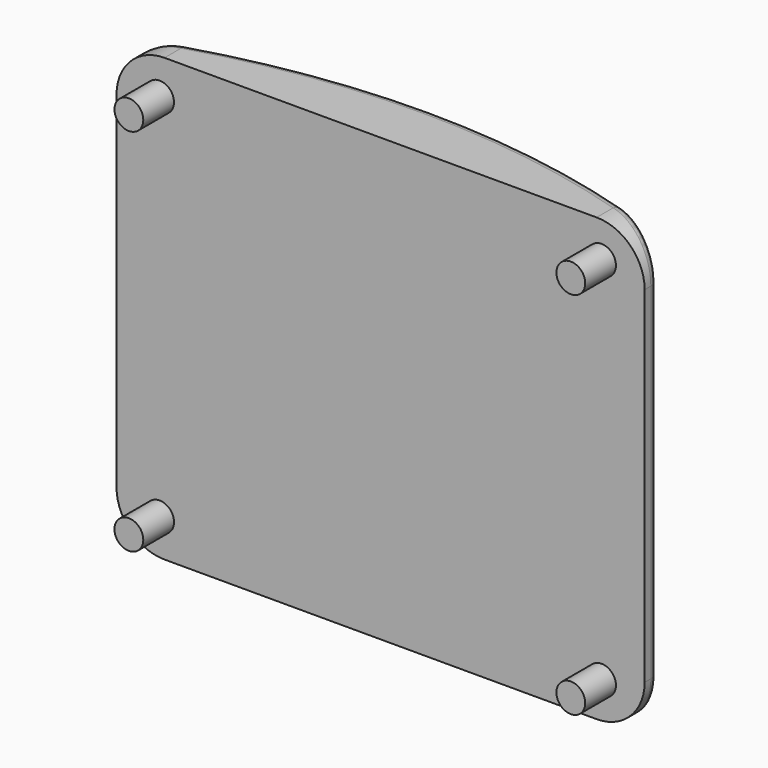
from build123d import *

# Parameters (mm, degrees)
F1_DEPTH = 23
F2_R     = 1.5
F4_DEPTH = 5.5
F5_DEPTH = 10
F6_R     = 5
F7_R     = 1
F8_R     = 0.5


with BuildPart() as f1:
    # F0 (on Top) → F1 (new body, symmetric)
    with BuildSketch(Plane.XY):
        with BuildLine():
            Line((27.5, -1.5), (27.5, 0))
            ThreePointArc((27.5, 0), (0, 5), (-27.5, 0))
            Line((-27.5, 0), (-27.5, -1.5))
            Line((-27.5, -1.5), (27.5, -1.5))
        make_face()
    extrude(amount=F1_DEPTH, both=True)

    # F2 (on Front) → F4 (join)
    with BuildSketch(Plane.XZ):
        with Locations((-23.0123061046, 19.2466560147)):
            Circle(F2_R)
        with Locations((23.0123061046, 19.2466560147)):
            Circle(F2_R)
        with Locations((23.0123061046, -19.2466560147)):
            Circle(F2_R)
        with Locations((-23.0123061046, -19.2466560147)):
            Circle(F2_R)
    extrude(amount=F4_DEPTH)

    # F3 (on Front) → F5 (cut)
    with BuildSketch(Plane.XZ):
        with BuildLine():
            ThreePointArc((0, 1.1039514701), (5.2962880407, -1.5374476198), (10.6882472668, 0.9027228385))
            ThreePointArc((10.6882472668, 0.9027228385), (11.897657458, 2.9834661097), (12.3178755286, 5.3531881071))
            ThreePointArc((12.3178755286, 5.3531881071), (7.6735002476, 11.8682872916), (0, 9.6024247441))
            ThreePointArc((0, 9.6024247441), (1.0890805001, 7.6006696703), (1.4658381598, 5.3531881071))
            ThreePointArc((1.4658381598, 5.3531881071), (1.0890805001, 3.1057065439), (0, 1.1039514701))
        make_face()
        with BuildLine():
            ThreePointArc((0, -10.0526133976), (5.7525538253, -4.9734180228), (10.6882472668, 0.9027228385))
            ThreePointArc((10.6882472668, 0.9027228385), (5.2962880407, -1.5374476198), (0, 1.1039514701))
            ThreePointArc((0, 1.1039514701), (-5.2962880407, -1.5374476198), (-10.6882472668, 0.9027228385))
            ThreePointArc((-10.6882472668, 0.9027228385), (-5.7525538253, -4.9734180228), (0, -10.0526133976))
        make_face()
        with BuildLine():
            ThreePointArc((-10.6882472668, 0.9027228385), (-5.2962880407, -1.5374476198), (0, 1.1039514701))
            ThreePointArc((0, 1.1039514701), (-1.4658381598, 5.3531881071), (0, 9.6024247441))
            ThreePointArc((0, 9.6024247441), (-9.7766404918, 10.6982587941), (-10.6882472668, 0.9027228385))
        make_face()
        with BuildLine():
            ThreePointArc((0, 9.6024247441), (-1.4658381598, 5.3531881071), (0, 1.1039514701))
            ThreePointArc((0, 1.1039514701), (1.0890805001, 3.1057065439), (1.4658381598, 5.3531881071))
            ThreePointArc((1.4658381598, 5.3531881071), (1.0890805001, 7.6006696703), (0, 9.6024247441))
        make_face()
    extrude(amount=-F5_DEPTH, mode=Mode.SUBTRACT)

    # F6
    f6_edges = [f1.edges().sort_by_distance(p)[0] for p in [
        (-27.5, -0.75, 23),
        (27.5, -0.75, -23),
        (-27.5, -0.75, -23),
        (27.5, -0.75, 23),
    ]]
    fillet(f6_edges, radius=F6_R)

    # F7
    f7_edges = [f1.edges().sort_by_distance(p)[0] for p in [
        (0, 5, 23),
        (0, 5, -23),
        (-27.5, 0, 0),
        (27.5, 0, 0),
    ]]
    fillet(f7_edges, radius=F7_R)

    # F8
    f8_edges = [f1.edges().sort_by_distance(p)[0] for p in [
        (-9.775705, 4.385975, 10.69902),
        (9.775705, 4.385975, 10.69902),
        (5.75752, 4.787557, -4.968327),
        (-5.75752, 4.787557, -4.968327),
    ]]
    fillet(f8_edges, radius=F8_R)


solid = f1.part
